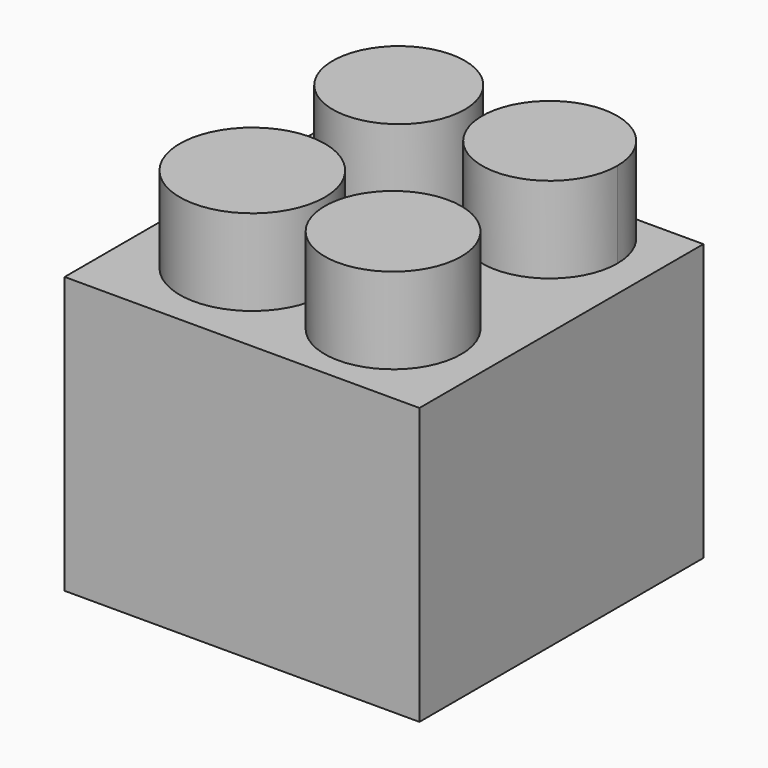
from build123d import *

# Parameters (mm, degrees)
F1_W     = 14.673665
F1_H     = 14.677159
F2_DEPTH = 11.43
F3_R     = 2.823757
F3_R_2   = 2.731621
F3_R_3   = 3.000674
F5_DEPTH = 3.556


with BuildPart() as f2:
    # F1 (on face) → F2 (new body)
    with BuildSketch(Plane.XY):
        with Locations((-181.473411, -79.122174)):
            Rectangle(F1_W, F1_H)
    extrude(amount=F2_DEPTH)

    # F3 (on face) → F5 (join)
    with BuildSketch(Plane.XY.offset(11.43)):
        with BuildLine():
            ThreePointArc((-178.254932, -71.783595), (-180.231409, -76.555231), (-175.459772, -74.578755))
            ThreePointArc((-175.459772, -74.578755), (-176.278456, -72.602278), (-178.254932, -71.783595))
        make_face()
        with Locations((-178.254932, -82.677774)):
            Circle(F3_R)
        with Locations((-184.495822, -74.578755)):
            Circle(F3_R_2)
        with Locations((-184.46213, -82.193248)):
            Circle(F3_R_3)
    extrude(amount=F5_DEPTH)


solid = f2.part
